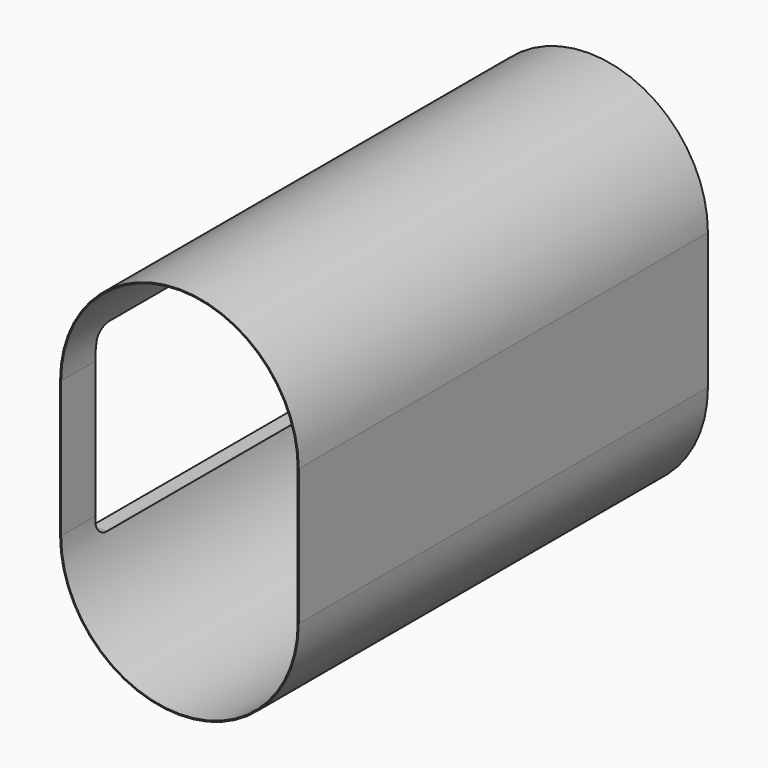
from build123d import *

# Parameters (mm, degrees)
F1_DEPTH = 762
F3_DEPTH = 25.4
F8_DEPTH = 3.175


with BuildPart() as f1:
    # F0 (on Front) → F1 (new body, symmetric)
    with BuildSketch(Plane.XZ):
        with BuildLine():
            ThreePointArc((355.6, 203.2), (0, 558.8), (-355.6, 203.2))
            Line((-355.6, 203.2), (-355.6, -203.2))
            ThreePointArc((-355.6, -203.2), (0, -558.8), (355.6, -203.2))
            Line((355.6, -203.2), (355.6, 203.2))
        make_face()
        with BuildLine():
            ThreePointArc((-352.425, 203.2), (0, 555.625), (352.425, 203.2))
            Line((352.425, 203.2), (352.425, -203.2))
            ThreePointArc((352.425, -203.2), (0, -555.625), (-352.425, -203.2))
            Line((-352.425, -203.2), (-352.425, 203.2))
        make_face(mode=Mode.SUBTRACT)
    extrude(amount=F1_DEPTH, both=True)

    # F2 (on face) → F3 (cut)
    with BuildSketch(Plane(origin=(-355.6, 0, 0), x_dir=(0, -1, 0), z_dir=(-1, 0, 0))):
        with BuildLine():
            Line((596.9, 298.1624071598), (-596.9, 298.1624071598))
            ThreePointArc((-596.9, 298.1624071598), (-623.8407683632, 287.003175523), (-635, 260.0624071598))
            Line((-635, 260.0624071598), (-635, -219.1459578514))
            ThreePointArc((-635, -219.1459578514), (-623.8407683632, -246.0867262146), (-596.9, -257.2459578514))
            Line((-596.9, -257.2459578514), (596.9, -257.2459578514))
            ThreePointArc((596.9, -257.2459578514), (623.8407683632, -246.0867262146), (635, -219.1459578514))
            Line((635, -219.1459578514), (635, 260.0624071598))
            ThreePointArc((635, 260.0624071598), (623.8407683632, 287.003175523), (596.9, 298.1624071598))
        make_face()
    extrude(amount=-F3_DEPTH, mode=Mode.SUBTRACT)


with BuildPart() as f6:
    # F5 (on offset) → F6 (new body, up to the next surface of F1)
    with BuildSketch(Plane(origin=(-393.7, 0, 0), x_dir=(0, -1, 0), z_dir=(-1, 0, 0))):
        with BuildLine():
            Line((638.175, 203.2), (638.175, 260.0624071598))
            ThreePointArc((638.175, 260.0624071598), (626.0858323935, 289.2482395533), (596.9, 301.3374071598))
            Line((596.9, 301.3374071598), (-596.9, 301.3374071598))
            ThreePointArc((-596.9, 301.3374071598), (-626.0858323935, 289.2482395533), (-638.175, 260.0624071598))
            Line((-638.175, 260.0624071598), (-638.175, 203.2))
            Line((-638.175, 203.2), (-638.175, -203.2))
            Line((-638.175, -203.2), (-638.175, -219.1459578514))
            ThreePointArc((-638.175, -219.1459578514), (-626.0858323935, -248.3317902449), (-596.9, -260.4209578514))
            Line((-596.9, -260.4209578514), (596.9, -260.4209578514))
            ThreePointArc((596.9, -260.4209578514), (626.0858323935, -248.3317902449), (638.175, -219.1459578514))
            Line((638.175, -219.1459578514), (638.175, -203.2))
            Line((638.175, -203.2), (638.175, 203.2))
        make_face()
        with BuildLine():
            Line((596.9, -257.2459578514), (-596.9, -257.2459578514))
            ThreePointArc((-596.9, -257.2459578514), (-623.8407683632, -246.0867262146), (-635, -219.1459578514))
            Line((-635, -219.1459578514), (-635, -203.2))
            Line((-635, -203.2), (-635, 203.2))
            Line((-635, 203.2), (-635, 260.0624071598))
            ThreePointArc((-635, 260.0624071598), (-623.8407683632, 287.003175523), (-596.9, 298.1624071598))
            Line((-596.9, 298.1624071598), (596.9, 298.1624071598))
            ThreePointArc((596.9, 298.1624071598), (623.8407683632, 287.003175523), (635, 260.0624071598))
            Line((635, 260.0624071598), (635, 203.2))
            Line((635, 203.2), (635, -203.2))
            Line((635, -203.2), (635, -219.1459578514))
            ThreePointArc((635, -219.1459578514), (623.8407683632, -246.0867262146), (596.9, -257.2459578514))
        make_face(mode=Mode.SUBTRACT)
    extrude(until=Until.NEXT, target=f1.part, dir=(1, 0, 0))


with BuildPart() as f8:
    # F7 (on face) → F8 (new body)
    with BuildSketch(Plane(origin=(0, 762, 0), x_dir=(-1, 0, 0), z_dir=(0, 1, 0))):
        with BuildLine():
            ThreePointArc((352.425, 203.2), (0, 555.625), (-352.425, 203.2))
            Line((-352.425, 203.2), (-352.425, -203.2))
            ThreePointArc((-352.425, -203.2), (0, -555.625), (352.425, -203.2))
            Line((352.425, -203.2), (352.425, 203.2))
        make_face()
    extrude(amount=-F8_DEPTH)


solid = Compound([f1.part, f6.part, f8.part])
